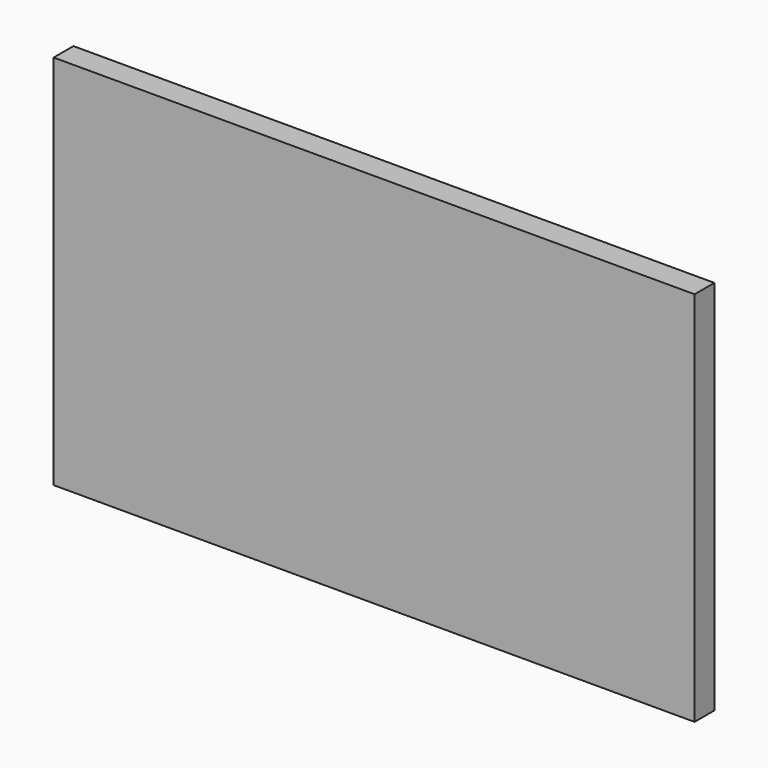
from build123d import *

# Parameters (mm, degrees)
F0_W     = 49.1954423487
F0_H     = 27.1353706167
F0_W_2   = 43.6466466635
F0_H_2   = 19.5353943855
F0_W_3   = 65.783213824
F0_H_3   = 4.6626478434
F1_DEPTH = 2.54


with BuildPart() as f1:
    # F0 (on Front) → F1 (new body)
    with BuildSketch(Plane.XZ):
        with Locations((-0.3839991987, 21.6919340469)):
            Rectangle(F0_W, F0_H)
        Polygon((-22.1977923065, 10.1510733366), (-23.8697398454, 10.1510733366), (-23.8697398454, 33.3823524415), (23.0328030884, 33.3823524415), (23.0328030884, 10.1510733366), (21.448854357, 10.1510733366), align=None, mode=Mode.SUBTRACT)
        with Locations((-0.3744689748, 19.9187705293)):
            Rectangle(F0_W_2, F0_H_2)
        Polygon((-34.1272205114, 38.6407636106), (-34.1272205114, 7.6258555055), (-28.0774030834, 7.6258555055), (-28.0774030834, 8.1083169207), (-24.981720373, 8.1242487385), (-24.981720373, 35.2596193552), (24.2137219757, 35.2596193552), (24.2137219757, 8.1242487385), (27.5058131665, 8.1242487385), (27.5058131665, 7.6258555055), (31.6559933126, 7.6258555055), (31.6559933126, 38.6407636106), align=None)
        with Locations((-1.2356135994, 2.3313239217)):
            Rectangle(F0_W_3, F0_H_3)
        Polygon((-23.8697398454, 33.3823524415), (-23.8697398454, 10.1510733366), (-22.1977923065, 10.1510733366), (-22.1977923065, 29.6864677221), (21.448854357, 29.6864677221), (21.448854357, 10.1510733366), (23.0328030884, 10.1510733366), (23.0328030884, 33.3823524415), align=None)
        Polygon((-34.1272205114, 7.6258555055), (-34.1272205114, 4.6626478434), (31.6559933126, 4.6626478434), (31.6559933126, 7.6258555055), (27.5058131665, 7.6258555055), (-28.0774030834, 7.6258555055), align=None)
        Polygon((-28.0774030834, 8.1083169207), (-28.0774030834, 7.6258555055), (27.5058131665, 7.6258555055), (27.5058131665, 8.1242487385), (24.2137219757, 8.1242487385), (-24.981720373, 8.1242487385), align=None)
    extrude(amount=F1_DEPTH)


solid = f1.part
